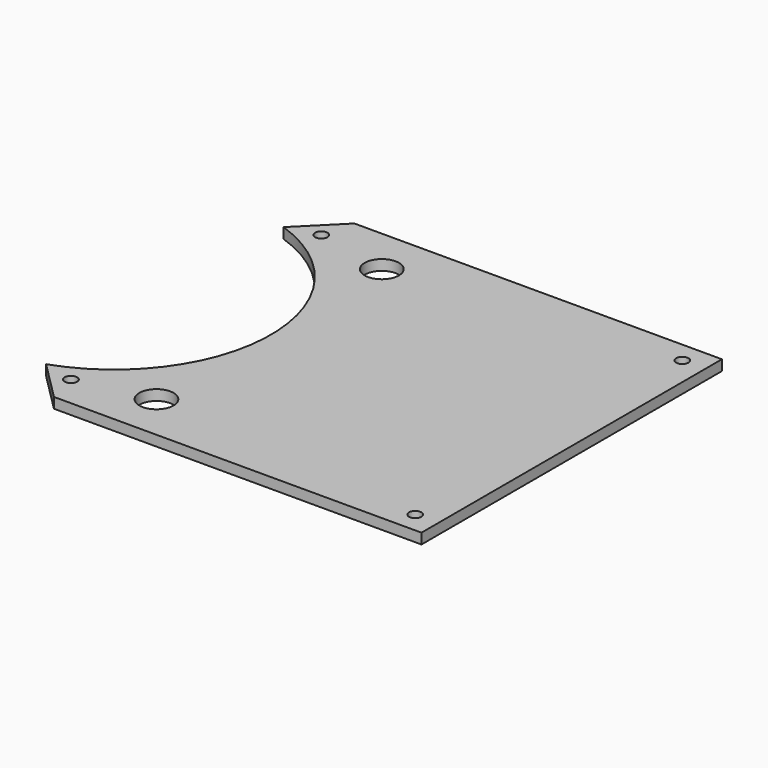
from build123d import *

# Parameters (mm, degrees)
PAD_DEPTH       = 5
SKETCH001_R     = 1.7
SKETCH001_R_2   = 8.2
POCKET_DEPTH    = 5.001
SKETCH002_R     = 2.95
POCKET001_DEPTH = 3.5


with BuildPart() as part:
    # Sketch → Pad (new body)
    with BuildSketch(Plane.XY):
        with BuildLine():
            ThreePointArc((24.4, -71.131428), (75.2, 0), (24.4, 71.131428))
            Line((24.4, 71.131428), (43.268572, 90))
            Line((43.268572, 90), (219.4, 90))
            Line((219.4, 90), (219.4, -90))
            Line((219.4, -90), (43.268572, -90))
            Line((43.268572, -90), (24.4, -71.131428))
        make_face()
    extrude(amount=PAD_DEPTH)

    # Sketch001 (on Face8 of Pad) → Pocket (cut, through all)
    with BuildSketch(Plane.XY.offset(5)):
        with Locations((39.4, 75)):
            Circle(SKETCH001_R)
        with Locations((39.4, -75)):
            Circle(SKETCH001_R)
        with Locations((208.4, -80)):
            Circle(SKETCH001_R)
        with Locations((208.4, 80)):
            Circle(SKETCH001_R)
        with Locations((74.4, 67.5)):
            Circle(SKETCH001_R_2)
        with Locations((74.4, -67.5)):
            Circle(SKETCH001_R_2)
    extrude(amount=-POCKET_DEPTH, mode=Mode.SUBTRACT)

    # Sketch002 (on Face5 of Pocket) → Pocket001 (cut)
    with BuildSketch(Plane.XY.offset(5)):
        with Locations((39.4, -75)):
            Circle(SKETCH002_R)
        with Locations((208.4, -80)):
            Circle(SKETCH002_R)
        with Locations((39.4, 75)):
            Circle(SKETCH002_R)
        with Locations((208.4, 80)):
            Circle(SKETCH002_R)
    extrude(amount=-POCKET001_DEPTH, mode=Mode.SUBTRACT)


solid = part.part
